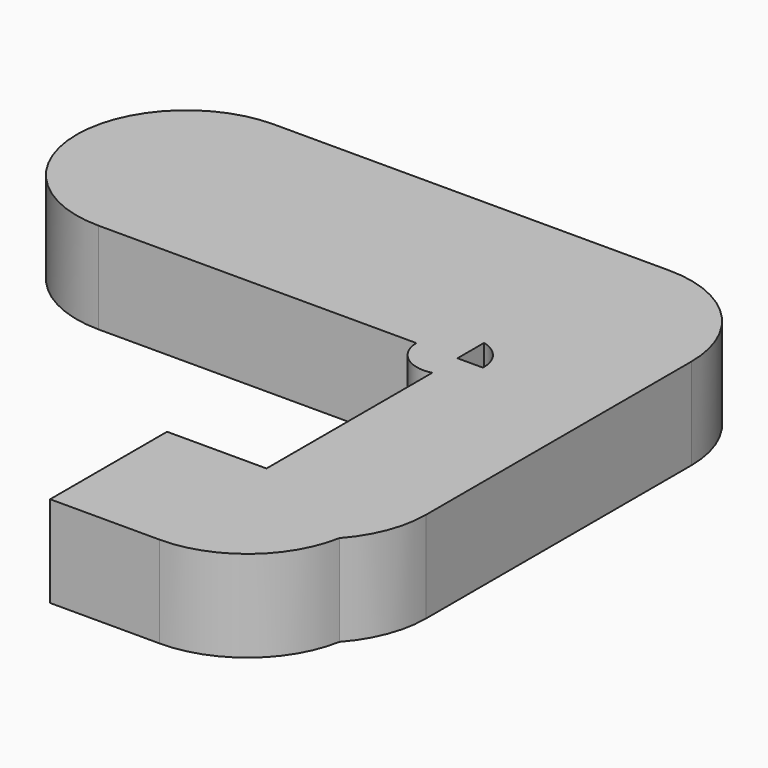
from build123d import *

# Parameters (mm, degrees)
F1_DEPTH = 12.5


with BuildPart() as f1:
    # F0 (on Top) → F1 (new body, symmetric)
    with BuildSketch(Plane.XY):
        with BuildLine():
            ThreePointArc((84.0985998511, 0), (75.3118032867, 21.2132034356), (54.0985998511, 30))
            Line((54.0985998511, 30), (44.0985998511, 30))
            Line((44.0985998511, 30), (44.0985998511, -20.9094693613))
            ThreePointArc((44.0985998511, -20.9094693613), (49.1273723115, -24.1347203376), (51.0830686261, -29.7797223964))
            ThreePointArc((51.0830686261, -29.7797223964), (51.0824038047, -29.8898692234), (51.0804094374, -30))
            Line((51.0804094374, -30), (84.0985998511, -30))
            Line((84.0985998511, -30), (84.0985998511, 0))
        make_face()
        with BuildLine():
            Line((44.0985998511, -20.9094693613), (44.0985998511, 30))
            Line((44.0985998511, 30), (-54.0985998511, 30))
            ThreePointArc((-54.0985998511, 30), (-75.3118032867, 21.2132034356), (-84.0985998511, 0))
            ThreePointArc((-84.0985998511, 0), (-75.3118032867, -21.2132034356), (-54.0985998511, -30))
            Line((-54.0985998511, -30), (32.8360660177, -30))
            ThreePointArc((32.8360660177, -30), (36.2271075512, -22.679251579), (44.0985998511, -20.9094693613))
        make_face()
        with BuildLine():
            Line((44.0985998511, -30), (44.0985998511, -20.9094693613))
            ThreePointArc((44.0985998511, -20.9094693613), (36.2271075512, -22.679251579), (32.8360660177, -30))
            Line((32.8360660177, -30), (44.0985998511, -30))
        make_face()
        with BuildLine():
            Line((84.0985998511, -90.6766453385), (84.0985998511, -30))
            Line((84.0985998511, -30), (51.0804094374, -30))
            ThreePointArc((51.0804094374, -30), (49.058708545, -35.5108525728), (44.0985998511, -38.6499754316))
            Line((44.0985998511, -38.6499754316), (44.0985998511, -95.3159397841))
            Line((44.0985998511, -95.3159397841), (76.8876001239, -95.3159397841))
            Line((76.8876001239, -95.3159397841), (76.8876001239, -105.315939784))
            ThreePointArc((76.8876001239, -105.315939784), (76.763142839, -108.0457653235), (76.3908036255, -110.7529410846))
            ThreePointArc((76.3908036255, -110.7529410846), (82.1054393125, -101.4291772908), (84.0985998511, -90.6766453385))
        make_face()
        with BuildLine():
            Line((44.0985998511, -38.6499754316), (44.0985998511, -30))
            Line((44.0985998511, -30), (32.8360660177, -30))
            ThreePointArc((32.8360660177, -30), (36.4001863589, -37.0164760824), (44.0985998511, -38.6499754316))
        make_face()
        with BuildLine():
            Line((51.0804094374, -30), (44.0985998511, -30))
            Line((44.0985998511, -30), (44.0985998511, -38.6499754316))
            ThreePointArc((44.0985998511, -38.6499754316), (49.058708545, -35.5108525728), (51.0804094374, -30))
        make_face()
        with BuildLine():
            ThreePointArc((46.8876001239, -135.315939784), (66.082520819, -128.3714167799), (76.3908036255, -110.7529410846))
            ThreePointArc((76.3908036255, -110.7529410846), (66.2992376955, -118.0836596996), (54.0985998511, -120.6766453385))
            Line((54.0985998511, -120.6766453385), (44.0985998511, -120.6766453385))
            Line((44.0985998511, -120.6766453385), (44.0985998511, -95.3159397841))
            Line((44.0985998511, -95.3159397841), (16.8876001239, -95.3159397841))
            Line((16.8876001239, -95.315939784), (16.8876001239, -135.315939784))
            Line((16.8876001239, -135.315939784), (46.8876001239, -135.315939784))
        make_face()
        with BuildLine():
            ThreePointArc((54.0985998511, -120.6766453385), (66.2992376955, -118.0836596996), (76.3908036255, -110.7529410846))
            ThreePointArc((76.3908036255, -110.7529410846), (76.763142839, -108.0457653235), (76.8876001239, -105.315939784))
            Line((76.8876001239, -105.315939784), (76.8876001239, -95.3159397841))
            Line((76.8876001239, -95.3159397841), (44.0985998511, -95.3159397841))
            Line((44.0985998511, -95.3159397841), (44.0985998511, -120.6766453385))
            Line((44.0985998511, -120.6766453385), (54.0985998511, -120.6766453385))
        make_face()
    extrude(amount=F1_DEPTH, both=True)


solid = f1.part
